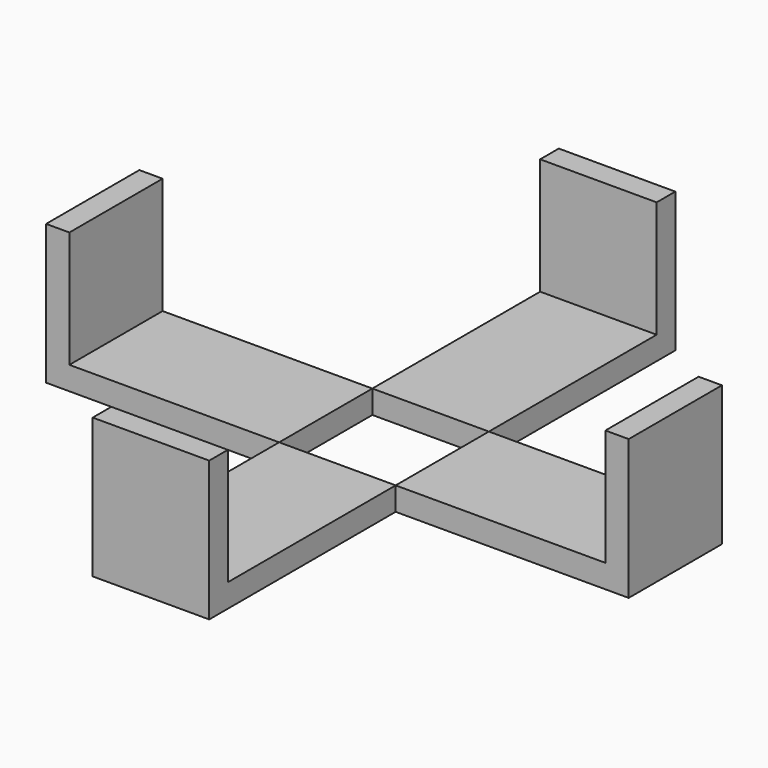
from build123d import *

# Parameters (mm, degrees)
F0_W      = 300
F0_H      = 160
F1_DEPTH  = 2
F2_W      = 10
F2_H      = 20
F2_W_2    = 20
F2_H_2    = 10
F3_DEPTH  = 2
F4_W      = 10
F4_H      = 2
F5_DEPTH  = 10
F6_W      = 2
F6_H      = 10
F7_DEPTH  = 10
F8_W      = 2
F8_H      = 10
F9_DEPTH  = 10
F10_W     = 10
F10_H     = 2
F11_DEPTH = 10


with BuildPart() as f1:
    # F0 (on Top) → F1 (new body)
    with BuildSketch(Plane.XY):
        Rectangle(F0_W, F0_H)
    extrude(amount=F1_DEPTH)


with BuildPart() as f3:
    # F2 (on face) → F3 (new body)
    with BuildSketch(Plane.XY.offset(2)):
        with Locations((0, 15)):
            Rectangle(F2_W, F2_H)
        with Locations((-15, 0)):
            Rectangle(F2_W_2, F2_H_2)
        with Locations((0, -15)):
            Rectangle(F2_W, F2_H)
        with Locations((15, 0)):
            Rectangle(F2_W_2, F2_H_2)
    extrude(amount=F3_DEPTH)

    # F4 (on face) → F5 (join)
    with BuildSketch(Plane.XY.offset(4)):
        with Locations((0, 24)):
            Rectangle(F4_W, F4_H)
    extrude(amount=F5_DEPTH)

    # F6 (on face) → F7 (join)
    with BuildSketch(Plane.XY.offset(4)):
        with Locations((-24, 0)):
            Rectangle(F6_W, F6_H)
    extrude(amount=F7_DEPTH)

    # F8 (on face) → F9 (join)
    with BuildSketch(Plane.XY.offset(4)):
        with Locations((24, 0)):
            Rectangle(F8_W, F8_H)
    extrude(amount=F9_DEPTH)

    # F10 (on face) → F11 (join)
    with BuildSketch(Plane.XY.offset(4)):
        with Locations((0, -24)):
            Rectangle(F10_W, F10_H)
    extrude(amount=F11_DEPTH)


solid = f3.part
